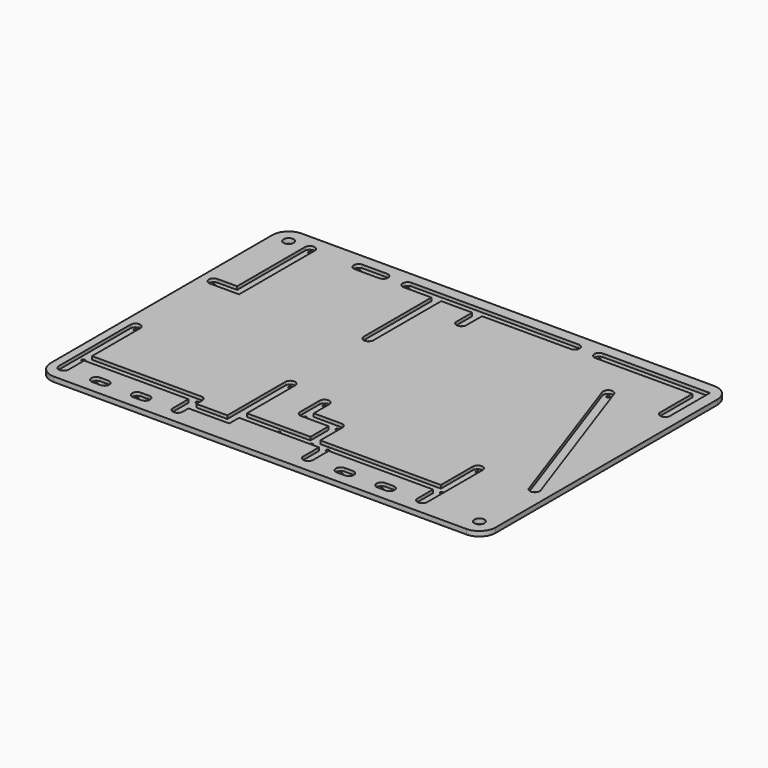
from build123d import *

# Parameters (mm, degrees)
F0_R     = 0.5
F1_DEPTH = 1.5
F2_R     = 1.5
F3_DEPTH = 1
F4_R     = 1.55
F5_DEPTH = 1.501


with BuildPart() as f1:
    # F0 (on Top) → F1 (new body)
    with BuildSketch(Plane.XY):
        with BuildLine():
            Line((-77.5, -27.5), (77.5, -27.5))
            ThreePointArc((77.5, -27.5), (81.0355339059, -26.0355339059), (82.5, -22.5))
            Line((82.5, -22.5), (82.5, 80))
            ThreePointArc((82.5, 80), (81.0355339059, 83.5355339059), (77.5, 85))
            Line((77.5, 85), (-77.5, 85))
            ThreePointArc((-77.5, 85), (-81.0355339059, 83.5355339059), (-82.5, 80))
            Line((-82.5, 80), (-82.5, -22.5))
            ThreePointArc((-82.5, -22.5), (-81.0355339059, -26.0355339059), (-77.5, -27.5))
        make_face()
        with Locations((-55, -17.5)):
            Circle(F0_R, mode=Mode.SUBTRACT)
        with Locations((-45, -17.5)):
            Circle(F0_R, mode=Mode.SUBTRACT)
        with Locations((-42.5, -17.5)):
            Circle(F0_R, mode=Mode.SUBTRACT)
        with Locations((-55, -10)):
            Circle(F0_R, mode=Mode.SUBTRACT)
        with Locations((-32.5, -17.5)):
            Circle(F0_R, mode=Mode.SUBTRACT)
        with Locations((-30, -17.5)):
            Circle(F0_R, mode=Mode.SUBTRACT)
        with Locations((-20, -17.5)):
            Circle(F0_R, mode=Mode.SUBTRACT)
        with Locations((-20, -10)):
            Circle(F0_R, mode=Mode.SUBTRACT)
        with Locations((-55, 10)):
            Circle(F0_R, mode=Mode.SUBTRACT)
        with Locations((-7.5, 10)):
            Circle(F0_R, mode=Mode.SUBTRACT)
        with Locations((20, -17.5)):
            Circle(F0_R, mode=Mode.SUBTRACT)
        with Locations((30, -17.5)):
            Circle(F0_R, mode=Mode.SUBTRACT)
        with Locations((32.5, -17.5)):
            Circle(F0_R, mode=Mode.SUBTRACT)
        with Locations((5, -10)):
            Circle(F0_R, mode=Mode.SUBTRACT)
        with Locations((15, -10)):
            Circle(F0_R, mode=Mode.SUBTRACT)
        with Locations((20, -10)):
            Circle(F0_R, mode=Mode.SUBTRACT)
        with Locations((5, 0)):
            Circle(F0_R, mode=Mode.SUBTRACT)
        with Locations((15, 0)):
            Circle(F0_R, mode=Mode.SUBTRACT)
        with Locations((42.5, -17.5)):
            Circle(F0_R, mode=Mode.SUBTRACT)
        with Locations((45, -17.5)):
            Circle(F0_R, mode=Mode.SUBTRACT)
        with Locations((55, -17.5)):
            Circle(F0_R, mode=Mode.SUBTRACT)
        with Locations((55, -10)):
            Circle(F0_R, mode=Mode.SUBTRACT)
        with Locations((5, 7.5)):
            Circle(F0_R, mode=Mode.SUBTRACT)
        with Locations((55, 3.75)):
            Circle(F0_R, mode=Mode.SUBTRACT)
        with Locations((72.5, 3.75)):
            Circle(F0_R, mode=Mode.SUBTRACT)
        with Locations((-55, 40)):
            Circle(F0_R, mode=Mode.SUBTRACT)
        with Locations((-7.5, 40)):
            Circle(F0_R, mode=Mode.SUBTRACT)
        with Locations((-47.5, 67.5)):
            Circle(F0_R, mode=Mode.SUBTRACT)
        with Locations((-32.5, 67.5)):
            Circle(F0_R, mode=Mode.SUBTRACT)
        with Locations((-25, 67.5)):
            Circle(F0_R, mode=Mode.SUBTRACT)
        with Locations((-17.5, 67.5)):
            Circle(F0_R, mode=Mode.SUBTRACT)
        with Locations((55, 53.75)):
            Circle(F0_R, mode=Mode.SUBTRACT)
        with Locations((72.5, 53.75)):
            Circle(F0_R, mode=Mode.SUBTRACT)
        with Locations((5, 60)):
            Circle(F0_R, mode=Mode.SUBTRACT)
        with Locations((33.75, 67.5)):
            Circle(F0_R, mode=Mode.SUBTRACT)
        with Locations((41.25, 67.5)):
            Circle(F0_R, mode=Mode.SUBTRACT)
    extrude(amount=F1_DEPTH)

    # F2 (on face) → F3 (cut)
    with BuildSketch(Plane.XY.offset(1.5)):
        with BuildLine():
            Line((-6, -11.5), (5, -11.5))
            ThreePointArc((5, -11.5), (3.5, -10), (5, -8.5))
            Line((5, -8.5), (-6, -8.5))
            Line((-6, -8.5), (-6, 10))
            ThreePointArc((-6, 10), (-7.5, 8.5), (-9, 10))
            Line((-9, 10), (-9, -12.25))
            Line((-9, -12.25), (-18.5, -12.25))
            Line((-18.5, -12.25), (-18.5, -10))
            ThreePointArc((-18.5, -10), (-21.0606601718, -11.0606601718), (-20, -8.5))
            Line((-20, -8.5), (-21.5, -8.5))
            Line((-21.5, -8.5), (-53.5, -8.5))
            Line((-53.5, -8.5), (-53.5, 8.5))
            Line((-53.5, 8.5), (-53.5, 10))
            ThreePointArc((-53.5, 10), (-55, 8.5), (-56.5, 10))
            Line((-56.5, 10), (-56.5, 8.5))
            Line((-56.5, 8.5), (-56.5, -10))
            Line((-56.5, -10), (-56.5, -17.5))
            ThreePointArc((-56.5, -17.5), (-55, -16), (-53.5, -17.5))
            Line((-53.5, -17.5), (-53.5, -11.5))
            Line((-53.5, -11.5), (-21.5, -11.5))
            Line((-21.5, -11.5), (-21.5, -17.5))
            ThreePointArc((-21.5, -17.5), (-20, -16), (-18.5, -17.5))
            Line((-18.5, -17.5), (-18.5, -15.25))
            Line((-18.5, -15.25), (-6, -15.25))
            Line((-6, -15.25), (-6, -11.5))
        make_face()
        with BuildLine():
            ThreePointArc((-53.5, -10), (-55, -11.5), (-56.5, -10))
            ThreePointArc((-56.5, -10), (-55, -8.5), (-53.5, -10))
        make_face(mode=Mode.SUBTRACT)
        with BuildLine():
            Line((53.5, 3.75), (53.5, -8.5))
            Line((53.5, -8.5), (20, -8.5))
            Line((20, -8.5), (16.5, -8.5))
            Line((16.5, -8.5), (15, -8.5))
            ThreePointArc((15, -8.5), (16.0606601718, -8.9393398282), (16.5, -10))
            ThreePointArc((16.5, -10), (16.0606601718, -11.0606601718), (15, -11.5))
            Line((15, -11.5), (18.5, -11.5))
            Line((18.5, -11.5), (18.5, -17.5))
            ThreePointArc((18.5, -17.5), (20, -16), (21.5, -17.5))
            Line((21.5, -17.5), (21.5, -11.5))
            Line((21.5, -11.5), (53.5, -11.5))
            Line((53.5, -11.5), (53.5, -17.5))
            ThreePointArc((53.5, -17.5), (55, -19), (56.5, -17.5))
            Line((56.5, -17.5), (56.5, -10))
            Line((56.5, -10), (56.5, 3.75))
            ThreePointArc((56.5, 3.75), (55, 2.25), (53.5, 3.75))
        make_face()
        with BuildLine():
            ThreePointArc((21.5, -10), (18.9393398282, -11.0606601718), (20, -8.5))
            ThreePointArc((20, -8.5), (21.0606601718, -8.9393398282), (21.5, -10))
        make_face(mode=Mode.SUBTRACT)
        with Locations((55, -10)):
            Circle(F2_R, mode=Mode.SUBTRACT)
        with BuildLine():
            ThreePointArc((71.0842124655, 3.2544743629), (72.0044743629, 5.1657875345), (73.9157875345, 4.2455256371))
            Line((73.9157875345, 4.2455256371), (56.4157875345, 54.2455256371))
            ThreePointArc((56.4157875345, 54.2455256371), (56.4787970283, 54.0013152385), (56.5, 53.75))
            ThreePointArc((56.5, 53.75), (55.2513152385, 52.2712029717), (53.5842124655, 53.2544743629))
            Line((53.5842124655, 53.2544743629), (71.0842124655, 3.2544743629))
        make_face()
        with BuildLine():
            Line((6.5, 60), (6.5, 66))
            Line((6.5, 66), (33.75, 66))
            ThreePointArc((33.75, 66), (32.25, 67.5), (33.75, 69))
            Line((33.75, 69), (-6, 69))
            Line((-6, 69), (-6, 67.5))
            Line((-6, 67.5), (-6, 66))
            Line((-6, 66), (3.5, 66))
            Line((3.5, 66), (3.5, 60))
            ThreePointArc((3.5, 60), (5, 61.5), (6.5, 60))
        make_face()
        with BuildLine():
            ThreePointArc((41.25, 69), (42.3106601718, 68.5606601718), (42.75, 67.5))
            ThreePointArc((42.75, 67.5), (42.3106601718, 66.4393398282), (41.25, 66))
            Line((41.25, 66), (53.5, 66))
            Line((53.5, 66), (71, 66))
            Line((71, 66), (71, 53.75))
            ThreePointArc((71, 53.75), (72.5, 55.25), (74, 53.75))
            Line((74, 53.75), (74, 69))
            Line((74, 69), (71, 69))
            Line((71, 69), (41.25, 69))
        make_face()
        with BuildLine():
            Line((-6, 67.5), (-6, 69))
            Line((-6, 69), (-17.5, 69))
            ThreePointArc((-17.5, 69), (-16.4393398282, 68.5606601718), (-16, 67.5))
            ThreePointArc((-16, 67.5), (-16.4393398282, 66.4393398282), (-17.5, 66))
            Line((-17.5, 66), (-9, 66))
            Line((-9, 66), (-9, 40))
            ThreePointArc((-9, 40), (-7.5, 41.5), (-6, 40))
            Line((-6, 40), (-6, 66))
            Line((-6, 66), (-6, 67.5))
        make_face()
        with BuildLine():
            ThreePointArc((-55, 41.5), (-53.9393398282, 41.0606601718), (-53.5, 40))
            ThreePointArc((-53.5, 40), (-53.9393398282, 38.9393398282), (-55, 38.5))
            Line((-55, 38.5), (-46, 38.5))
            Line((-46, 38.5), (-46, 67.5))
            ThreePointArc((-46, 67.5), (-47.5, 66), (-49, 67.5))
            Line((-49, 67.5), (-49, 41.5))
            Line((-49, 41.5), (-55, 41.5))
        make_face()
        with BuildLine():
            Line((5, -1.5), (13.5, -1.5))
            Line((13.5, -1.5), (15, -1.5))
            ThreePointArc((15, -1.5), (13.5, 0), (15, 1.5))
            Line((15, 1.5), (6.5, 1.5))
            Line((6.5, 1.5), (6.5, 7.5))
            ThreePointArc((6.5, 7.5), (5, 6), (3.5, 7.5))
            Line((3.5, 7.5), (3.5, 1.5))
            Line((3.5, 1.5), (3.5, 0))
            ThreePointArc((3.5, 0), (5, 1.5), (6.5, 0))
            ThreePointArc((6.5, 0), (6.0606601718, -1.0606601718), (5, -1.5))
        make_face()
        with BuildLine():
            ThreePointArc((15, -11.5), (13.5, -10), (15, -8.5))
            Line((15, -8.5), (13.5, -8.5))
            Line((13.5, -8.5), (5, -8.5))
            ThreePointArc((5, -8.5), (6.0606601718, -8.9393398282), (6.5, -10))
            ThreePointArc((6.5, -10), (6.0606601718, -11.0606601718), (5, -11.5))
            Line((5, -11.5), (15, -11.5))
        make_face()
        with BuildLine():
            Line((15, -8.5), (16.5, -8.5))
            Line((16.5, -8.5), (16.5, -1.5))
            Line((16.5, -1.5), (16.5, 0))
            ThreePointArc((16.5, 0), (16.0606601718, -1.0606601718), (15, -1.5))
            Line((15, -1.5), (13.5, -1.5))
            Line((13.5, -1.5), (13.5, -8.5))
            Line((13.5, -8.5), (15, -8.5))
        make_face()
        with BuildLine():
            ThreePointArc((-32.5, 69), (-31.4393398282, 68.5606601718), (-31, 67.5))
            ThreePointArc((-31, 67.5), (-31.4393398282, 66.4393398282), (-32.5, 66))
            Line((-32.5, 66), (-25, 66))
            ThreePointArc((-25, 66), (-26.5, 67.5), (-25, 69))
            Line((-25, 69), (-32.5, 69))
        make_face()
        with BuildLine():
            Line((42.5, -19), (45, -19))
            ThreePointArc((45, -19), (46.5, -17.5), (45, -16))
            Line((45, -16), (42.5, -16))
            ThreePointArc((42.5, -16), (41, -17.5), (42.5, -19))
        make_face()
        with BuildLine():
            Line((32.5, -16), (30, -16))
            ThreePointArc((30, -16), (28.5, -17.5), (30, -19))
            Line((30, -19), (32.5, -19))
            ThreePointArc((32.5, -19), (34, -17.5), (32.5, -16))
        make_face()
        with BuildLine():
            Line((-30, -16), (-32.5, -16))
            ThreePointArc((-32.5, -16), (-34, -17.5), (-32.5, -19))
            Line((-32.5, -19), (-30, -19))
            ThreePointArc((-30, -19), (-28.5, -17.5), (-30, -16))
        make_face()
        with BuildLine():
            Line((-42.5, -16), (-45, -16))
            ThreePointArc((-45, -16), (-46.5, -17.5), (-45, -19))
            Line((-45, -19), (-42.5, -19))
            ThreePointArc((-42.5, -19), (-41, -17.5), (-42.5, -16))
        make_face()
        with BuildLine():
            ThreePointArc((33.75, 69), (32.25, 67.5), (33.75, 66))
            ThreePointArc((33.75, 66), (34.8106601718, 66.4393398282), (35.25, 67.5))
            ThreePointArc((35.25, 67.5), (34.8106601718, 68.5606601718), (33.75, 69))
        make_face()
        with BuildLine():
            ThreePointArc((3.5, 60), (5, 58.5), (6.5, 60))
            ThreePointArc((6.5, 60), (5, 61.5), (3.5, 60))
        make_face()
        with BuildLine():
            ThreePointArc((-16, 67.5), (-16.4393398282, 68.5606601718), (-17.5, 69))
            ThreePointArc((-17.5, 69), (-19, 67.5), (-17.5, 66))
            ThreePointArc((-17.5, 66), (-16.4393398282, 66.4393398282), (-16, 67.5))
        make_face()
        with BuildLine():
            ThreePointArc((-9, 40), (-7.5, 38.5), (-6, 40))
            ThreePointArc((-6, 40), (-7.5, 41.5), (-9, 40))
        make_face()
        with BuildLine():
            ThreePointArc((21.5, -10), (21.0606601718, -8.9393398282), (20, -8.5))
            ThreePointArc((20, -8.5), (18.9393398282, -11.0606601718), (21.5, -10))
        make_face()
        with Locations((55, -10)):
            Circle(F2_R)
        with BuildLine():
            ThreePointArc((56.5, 3.75), (55, 5.25), (53.5, 3.75))
            ThreePointArc((53.5, 3.75), (55, 2.25), (56.5, 3.75))
        make_face()
        with BuildLine():
            ThreePointArc((16.5, -10), (16.0606601718, -8.9393398282), (15, -8.5))
            ThreePointArc((15, -8.5), (13.5, -10), (15, -11.5))
            ThreePointArc((15, -11.5), (16.0606601718, -11.0606601718), (16.5, -10))
        make_face()
        with BuildLine():
            ThreePointArc((15, -1.5), (16.0606601718, -1.0606601718), (16.5, 0))
            ThreePointArc((16.5, 0), (16.0606601718, 1.0606601718), (15, 1.5))
            ThreePointArc((15, 1.5), (13.5, 0), (15, -1.5))
        make_face()
        with BuildLine():
            ThreePointArc((-53.5, -10), (-55, -8.5), (-56.5, -10))
            ThreePointArc((-56.5, -10), (-55, -11.5), (-53.5, -10))
        make_face()
        with BuildLine():
            ThreePointArc((5, -8.5), (3.5, -10), (5, -11.5))
            ThreePointArc((5, -11.5), (6.0606601718, -11.0606601718), (6.5, -10))
            ThreePointArc((6.5, -10), (6.0606601718, -8.9393398282), (5, -8.5))
        make_face()
        with BuildLine():
            ThreePointArc((21.5, -17.5), (20, -16), (18.5, -17.5))
            ThreePointArc((18.5, -17.5), (20, -19), (21.5, -17.5))
        make_face()
        with BuildLine():
            ThreePointArc((3.5, 0), (3.9393398282, -1.0606601718), (5, -1.5))
            ThreePointArc((5, -1.5), (6.0606601718, -1.0606601718), (6.5, 0))
            ThreePointArc((6.5, 0), (5, 1.5), (3.5, 0))
        make_face()
        with BuildLine():
            ThreePointArc((-9, 10), (-7.5, 8.5), (-6, 10))
            ThreePointArc((-6, 10), (-7.5, 11.5), (-9, 10))
        make_face()
        with BuildLine():
            ThreePointArc((3.5, 7.5), (5, 6), (6.5, 7.5))
            ThreePointArc((6.5, 7.5), (5, 9), (3.5, 7.5))
        make_face()
        with BuildLine():
            ThreePointArc((-21.5, -17.5), (-20, -19), (-18.5, -17.5))
            ThreePointArc((-18.5, -17.5), (-20, -16), (-21.5, -17.5))
        make_face()
        with BuildLine():
            ThreePointArc((-20, -8.5), (-21.0606601718, -11.0606601718), (-18.5, -10))
            ThreePointArc((-18.5, -10), (-18.9393398282, -8.9393398282), (-20, -8.5))
        make_face()
        with BuildLine():
            ThreePointArc((-56.5, -17.5), (-55, -19), (-53.5, -17.5))
            ThreePointArc((-53.5, -17.5), (-55, -16), (-56.5, -17.5))
        make_face()
        with BuildLine():
            ThreePointArc((-56.5, 10), (-55, 8.5), (-53.5, 10))
            ThreePointArc((-53.5, 10), (-53.9393398282, 11.0606601718), (-55, 11.5))
            ThreePointArc((-55, 11.5), (-56.0606601718, 11.0606601718), (-56.5, 10))
        make_face()
        with BuildLine():
            ThreePointArc((-55, 38.5), (-53.9393398282, 38.9393398282), (-53.5, 40))
            ThreePointArc((-53.5, 40), (-53.9393398282, 41.0606601718), (-55, 41.5))
            ThreePointArc((-55, 41.5), (-56.5, 40), (-55, 38.5))
        make_face()
        with BuildLine():
            ThreePointArc((-46, 67.5), (-47.5, 69), (-49, 67.5))
            ThreePointArc((-49, 67.5), (-47.5, 66), (-46, 67.5))
        make_face()
        with BuildLine():
            ThreePointArc((-32.5, 66), (-31.4393398282, 66.4393398282), (-31, 67.5))
            ThreePointArc((-31, 67.5), (-31.4393398282, 68.5606601718), (-32.5, 69))
            ThreePointArc((-32.5, 69), (-34, 67.5), (-32.5, 66))
        make_face()
        with BuildLine():
            ThreePointArc((-23.5, 67.5), (-23.9393398282, 68.5606601718), (-25, 69))
            ThreePointArc((-25, 69), (-26.5, 67.5), (-25, 66))
            ThreePointArc((-25, 66), (-23.9393398282, 66.4393398282), (-23.5, 67.5))
        make_face()
        with BuildLine():
            ThreePointArc((41.25, 66), (42.3106601718, 66.4393398282), (42.75, 67.5))
            ThreePointArc((42.75, 67.5), (42.3106601718, 68.5606601718), (41.25, 69))
            ThreePointArc((41.25, 69), (39.75, 67.5), (41.25, 66))
        make_face()
        with BuildLine():
            ThreePointArc((71, 53.75), (72.5, 52.25), (74, 53.75))
            ThreePointArc((74, 53.75), (72.5, 55.25), (71, 53.75))
        make_face()
        with BuildLine():
            ThreePointArc((71.0842124655, 3.2544743629), (72.7513152385, 2.2712029717), (74, 3.75))
            ThreePointArc((74, 3.75), (73.9787970283, 4.0013152385), (73.9157875345, 4.2455256371))
            ThreePointArc((73.9157875345, 4.2455256371), (72.0044743629, 5.1657875345), (71.0842124655, 3.2544743629))
        make_face()
        with BuildLine():
            ThreePointArc((56.5, 53.75), (56.4787970283, 54.0013152385), (56.4157875345, 54.2455256371))
            ThreePointArc((56.4157875345, 54.2455256371), (54.5044743629, 55.1657875345), (53.5842124655, 53.2544743629))
            ThreePointArc((53.5842124655, 53.2544743629), (55.2513152385, 52.2712029717), (56.5, 53.75))
        make_face()
    extrude(amount=-F3_DEPTH, mode=Mode.SUBTRACT)

    # F4 (on face) → F5 (cut, through all)
    with BuildSketch(Plane.XY.offset(1.5)):
        with BuildLine():
            ThreePointArc((-82.5, -22.5), (-81.0355339059, -26.0355339059), (-77.5, -27.5))
            Line((-77.5, -27.5), (77.5, -27.5))
            ThreePointArc((77.5, -27.5), (81.0355339059, -26.0355339059), (82.5, -22.5))
            Line((82.5, -22.5), (82.5, 80))
            ThreePointArc((82.5, 80), (81.0355339059, 83.5355339059), (77.5, 85))
            Line((77.5, 85), (-77.5, 85))
            ThreePointArc((-77.5, 85), (-81.0355339059, 83.5355339059), (-82.5, 80))
            Line((-82.5, 80), (-82.5, -22.5))
        make_face()
        with BuildLine():
            ThreePointArc((-59, 67.5), (-57.5355339059, 71.0355339059), (-54, 72.5))
            Line((-54, 72.5), (72.5, 72.5))
            ThreePointArc((72.5, 72.5), (76.0355339059, 71.0355339059), (77.5, 67.5))
            Line((77.5, 67.5), (77.5, -17.5))
            ThreePointArc((77.5, -17.5), (76.0355339059, -21.0355339059), (72.5, -22.5))
            Line((72.5, -22.5), (-54, -22.5))
            ThreePointArc((-54, -22.5), (-57.5355339059, -21.0355339059), (-59, -17.5))
            Line((-59, -17.5), (-59, 67.5))
        make_face(mode=Mode.SUBTRACT)
        with Locations((-54, 67.5)):
            Circle(F4_R)
        with Locations((72.5, -17.5)):
            Circle(F4_R)
    extrude(amount=-F5_DEPTH, mode=Mode.SUBTRACT)


solid = f1.part
